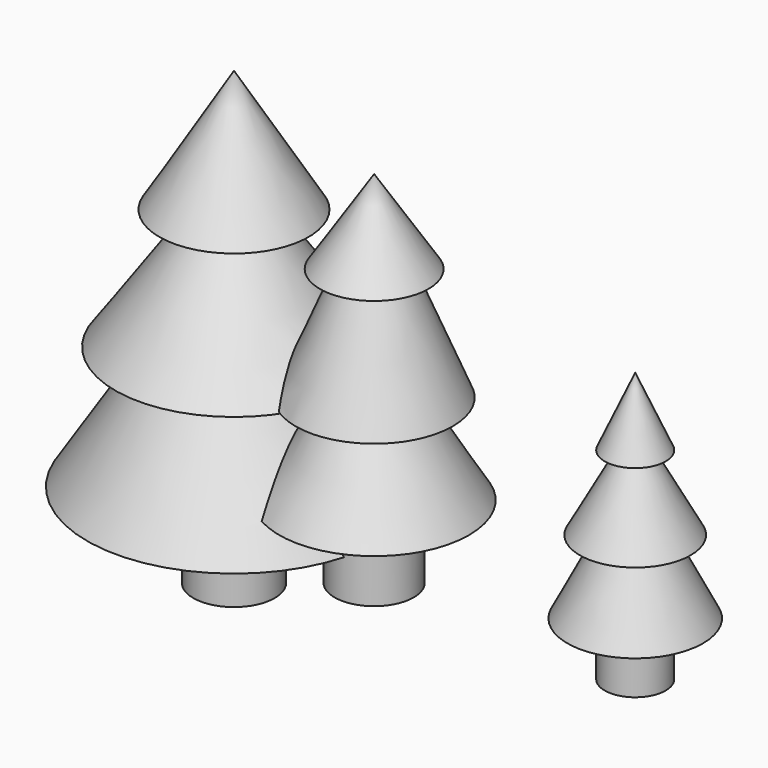
from build123d import *


with BuildPart() as f1:
    # F0 (on Front) → F1 (revolve)
    with BuildSketch(Plane.XZ):
        Polygon((-73.214658, -12.920233), (-61.730005, -12.601216), (-61.730005, 114.398784), (-82.785204, 79.914041), (-71.300551, 79.914041), (-95.226906, 45.779098), (-81.190109, 45.779098), (-103.202365, 11.006125), (-73.214658, 11.006125), align=None)
    revolve(axis=Axis((-61.730005, 0, 50.898784), (0, 0, 1)))

    # F0 (on Front) → F2 (revolve)
    with BuildSketch(Plane.XZ):
        Polygon((-22.17176, 101.6), (-22.17176, 0), (-11.006124, 0), (-11.006124, 20.576669), (4.62576, 20.576669), (-10.687104, 46.098121), (0, 46.098121), (-13.239253, 77.999927), (-6.858887, 77.999927), align=None)
    revolve(axis=Axis((-22.17176, 0, 50.8), (0, 0, 1)))


with BuildPart() as f3:
    # F0 (on Front) → F3 (revolve)
    with BuildSketch(Plane.XZ):
        Polygon((51.521428, 76.2), (51.521428, 0), (60.134921, 0), (60.134921, 15.153361), (70.662513, 15.153361), (60.134921, 35.889536), (67.153312, 35.889536), (55.668663, 56.944735), (60.134921, 56.944735), align=None)
    revolve(axis=Axis((51.521428, 0, 38.1), (0, 0, 1)))


solid = Compound([f1.part, f3.part])
